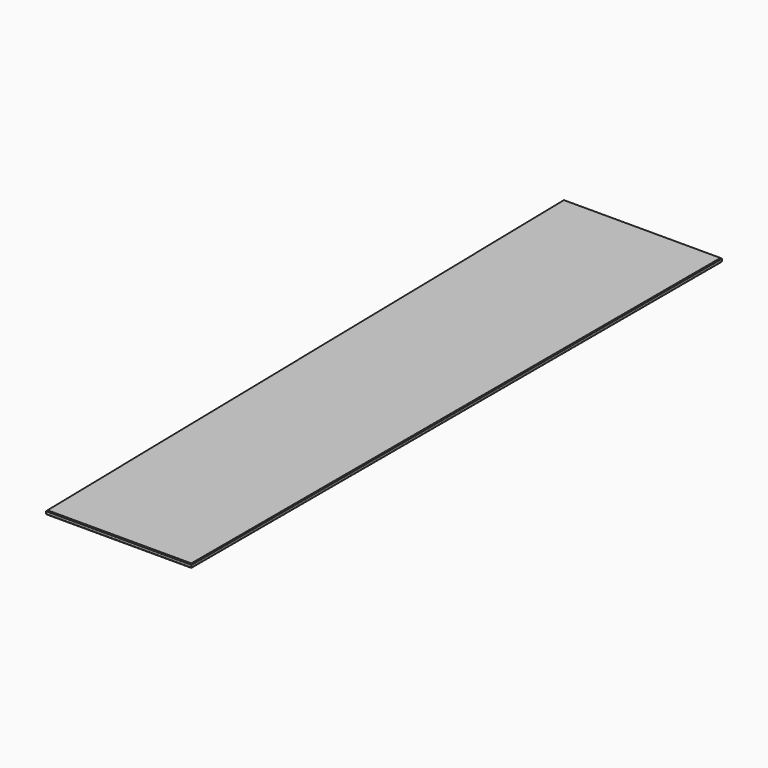
from build123d import *

# Parameters (mm, degrees)
F1_DEPTH = 2.5
F2_SIZE  = 1


with BuildPart() as f1:
    # F0 (on Top) → F1 (new body, symmetric)
    with BuildSketch(Plane.XY):
        Polygon((-107, 415), (-91, -415), (91, -415), (91, 415), align=None)
    extrude(amount=F1_DEPTH, both=True)

    # F2
    f2_edges = [f1.edges().sort_by_distance(p)[0] for p in [
        (-99, 0, 2.5),
        (-99, 0, -2.5),
        (-8, 415, 2.5),
        (-8, 415, -2.5),
        (91, 0, 2.5),
        (91, 0, -2.5),
        (0, -415, 2.5),
        (0, -415, -2.5),
    ]]
    chamfer(f2_edges, length=F2_SIZE)


solid = f1.part
